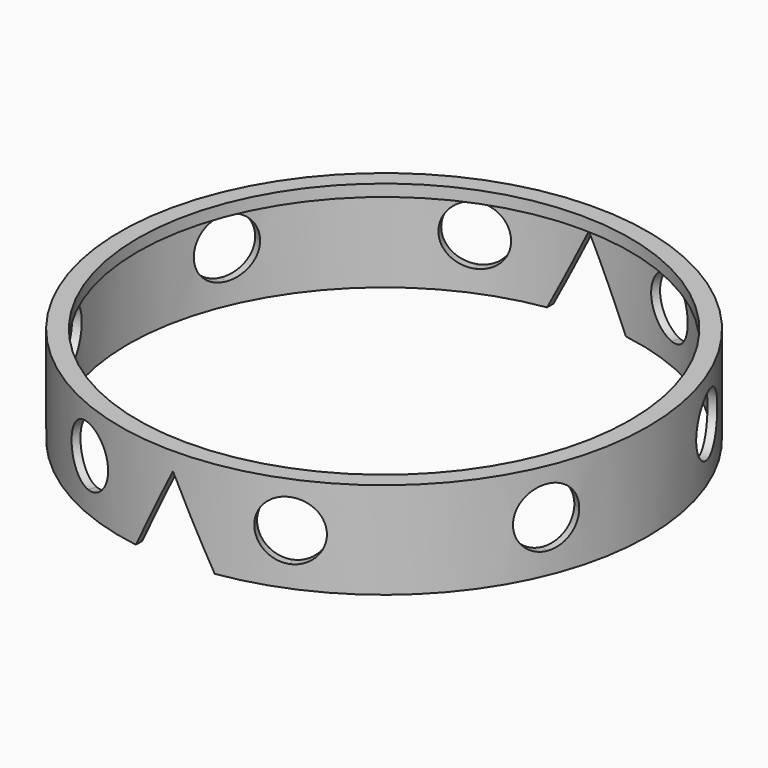
from build123d import *

# Parameters (mm, degrees)
F0_R      = 67
F0_R_2    = 65
F1_DEPTH  = 24.5
F3_DEPTH  = 125
F8_DEPTH  = 125
F11_R     = 7.5
F12_DEPTH = 125
F14_DEPTH = 125
F17_DEPTH = 125
F18_R     = 67
F18_R_2   = 62.5
F19_DEPTH = 3


with BuildPart() as f1:
    # F0 (on Top) → F1 (new body)
    with BuildSketch(Plane.XY):
        Circle(F0_R)
        Circle(F0_R_2, mode=Mode.SUBTRACT)
    extrude(amount=F1_DEPTH)

    # F2 (on Front) → F3 (cut, symmetric)
    with BuildSketch(Plane.XZ):
        Polygon((6.214331, -43.035142), (0, -32.271605), (-6.214331, -43.035142), align=None)
        Polygon((10, 0), (0, 20), (-10, 0), align=None)
    extrude(amount=F3_DEPTH, both=True, mode=Mode.SUBTRACT)

    # F7 (on face) → F8 (cut, symmetric)
    with BuildSketch(Plane(origin=(0, 0, 0), x_dir=(0.382683, 0.92388, 0), z_dir=(0.92388, -0.382683, 0))):
        with BuildLine():
            ThreePointArc((0, 5.5), (5.303301, 7.696699), (7.5, 13))
            ThreePointArc((7.5, 13), (-5.303301, 18.303301), (0, 5.5))
        make_face()
    extrude(amount=F8_DEPTH, both=True, mode=Mode.SUBTRACT)

    # F11 (on face) → F12 (cut, symmetric)
    with BuildSketch(Plane(origin=(0, 0, 0), x_dir=(0.382683, -0.92388, 0), z_dir=(-0.92388, -0.382683, 0))):
        with Locations((0, 13)):
            Circle(F11_R)
    extrude(amount=F12_DEPTH, both=True, mode=Mode.SUBTRACT)

    # F13 (on face) → F14 (cut, symmetric)
    with BuildSketch(Plane(origin=(0, 0, 0), x_dir=(0.92388, 0.382683, 0), z_dir=(0.382683, -0.92388, 0))):
        with BuildLine():
            ThreePointArc((0, 5.5), (5.303301, 7.696699), (7.5, 13))
            ThreePointArc((7.5, 13), (-5.303301, 18.303301), (0, 5.5))
        make_face()
    extrude(amount=F14_DEPTH, both=True, mode=Mode.SUBTRACT)

    # F16 (on face) → F17 (cut, symmetric)
    with BuildSketch(Plane(origin=(0, 0, 0), x_dir=(0.92388, -0.382683, 0), z_dir=(-0.382683, -0.92388, 0))):
        with BuildLine():
            ThreePointArc((0, 5.5), (5.303301, 7.696699), (7.5, 13))
            ThreePointArc((7.5, 13), (-5.303301, 18.303301), (0, 5.5))
        make_face()
    extrude(amount=F17_DEPTH, both=True, mode=Mode.SUBTRACT)

    # F18 (on face) → F19 (join)
    with BuildSketch(Plane.XY.offset(24.5)):
        Circle(F18_R)
        Circle(F18_R_2, mode=Mode.SUBTRACT)
    extrude(amount=-F19_DEPTH)


solid = f1.part
